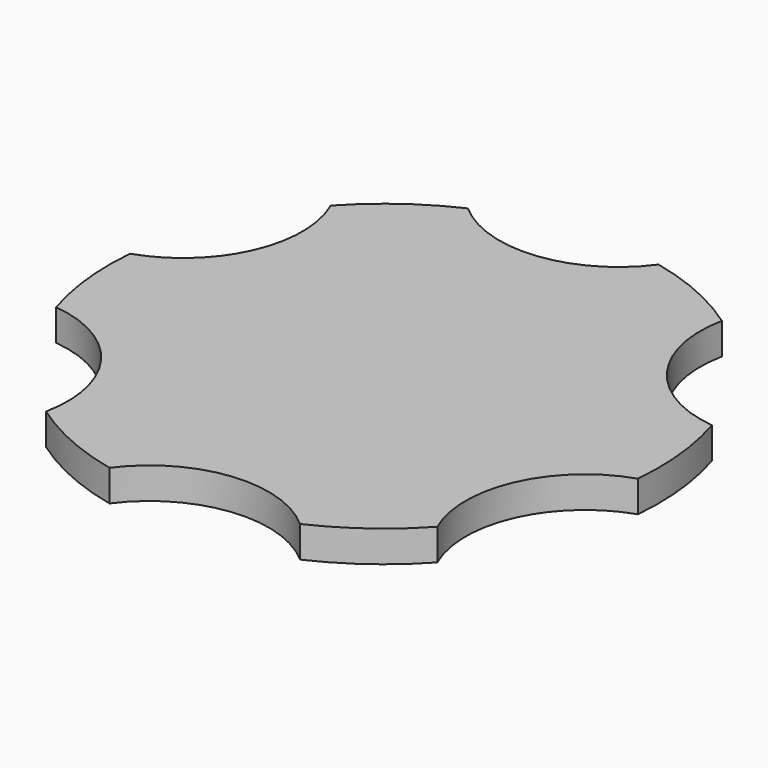
from build123d import *

# Parameters (mm, degrees)
F0_R     = 17.5
F1_DEPTH = 2
F2_R     = 7.601023
F3_DEPTH = 12.5


with BuildPart() as f1:
    # F0 (on Top) → F1 (new body)
    with BuildSketch(Plane.XY):
        Circle(F0_R)
    extrude(amount=F1_DEPTH)

    # F2 (on Top) → F3 (cut, symmetric)
    with BuildSketch(Plane.XY):
        with Locations((-19.829137, 8.781475)):
            Circle(F2_R)
        with Locations((-17.519549, -12.781799)):
            Circle(F2_R)
        with Locations((2.309588, -21.563274)):
            Circle(F2_R)
        with Locations((19.829137, -8.781475)):
            Circle(F2_R)
        with Locations((17.519549, 12.781799)):
            Circle(F2_R)
        with Locations((-2.309588, 21.563274)):
            Circle(F2_R)
    extrude(amount=F3_DEPTH, both=True, mode=Mode.SUBTRACT)


solid = f1.part
